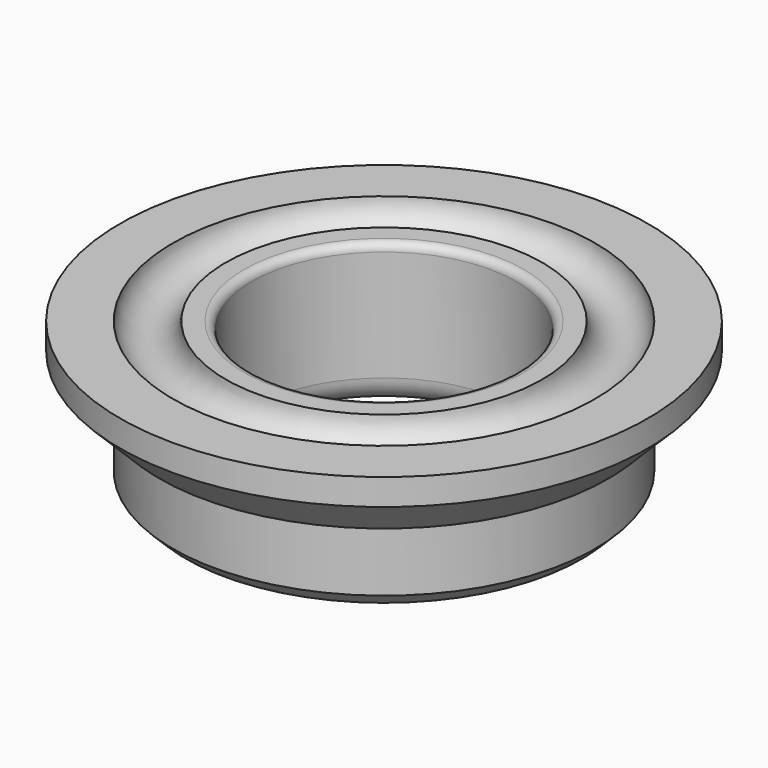
from build123d import *

# Parameters (mm, degrees)
F2_SIZE = 5
F3_R    = 10
F4_R    = 3


with BuildPart() as f1:
    # F0 (on Right) → F1 (revolve)
    with BuildSketch(Plane.YZ):
        with BuildLine():
            Line((60, 0), (50, 0))
            Line((50, 0), (50, -55))
            Line((50, -55), (80, -55))
            Line((80, -55), (80, -25))
            Line((80, -25), (85, -25))
            Line((85, -25), (100, -10))
            Line((100, -10), (100, 0))
            Line((100, 0), (80, 0))
            ThreePointArc((80, 0), (70, -10), (60, 0))
        make_face()
    revolve(axis=Axis((0, 0, -46.653546), (0, 0, -1)))

    # F2
    f2_edges = [f1.edges().sort_by_distance(p)[0] for p in [
        (0, -80, -55),
    ]]
    chamfer(f2_edges, length=F2_SIZE)

    # F3
    f3_edges = [f1.edges().sort_by_distance(p)[0] for p in [
        (0, -50, -55),
    ]]
    fillet(f3_edges, radius=F3_R)

    # F4
    f4_edges = [f1.edges().sort_by_distance(p)[0] for p in [
        (0, -50, 0),
    ]]
    fillet(f4_edges, radius=F4_R)


solid = f1.part
